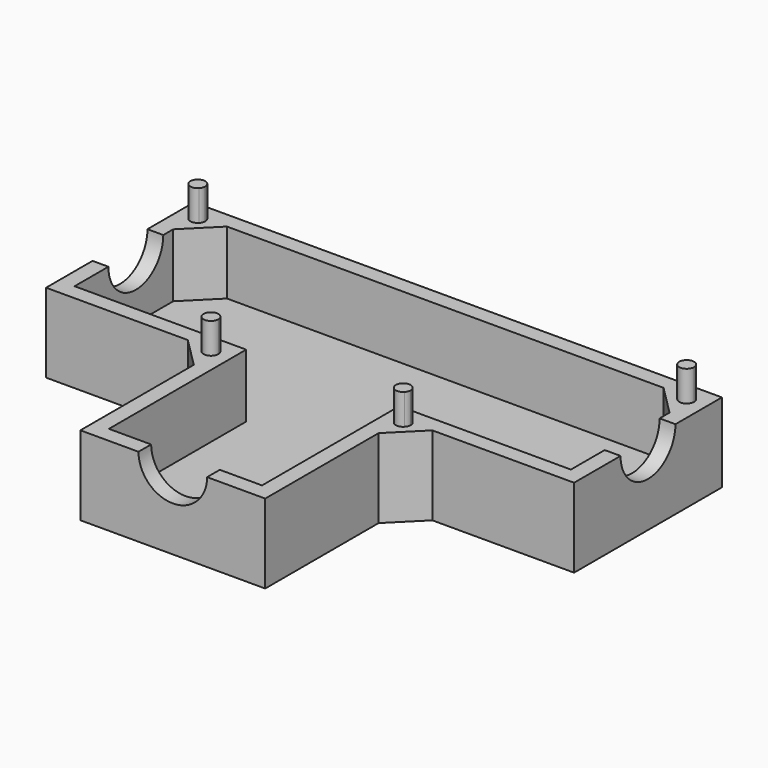
from build123d import *

# Parameters (mm, degrees)
F1_DEPTH  = 7.5
F2_T      = -1.5
F4_DEPTH  = 7.5
F6_DEPTH  = 2.9
F7_R      = 3.25
F8_DEPTH  = 32.25
F9_R      = 3.25
F10_DEPTH = 50.001


with BuildPart() as f1:
    # F0 (on Top) → F1 (new body)
    with BuildSketch(Plane.XY):
        Polygon((25, -8.75), (25, 8.75), (8.75, 8.75), (-8.75, 8.75), (-25, 8.75), (-25, -8.75), (-8.75, -8.75), (-8.75, -25), (0, -25), (8.75, -25), (8.75, -8.75), align=None)
    extrude(amount=F1_DEPTH)

    # F2
    f2_openings = [f1.faces().sort_by_distance(p)[0] for p in [
        (0, -4.139151, 7.5),
    ]]
    offset(amount=F2_T, openings=f2_openings, kind=Kind.INTERSECTION)

    # F3 (on face) → F4 (join, through all)
    with BuildSketch(Plane.XY.offset(7.5)):
        Polygon((-23.5, 7.25), (-23.5, 4.4215728753), (-20.6715728753, 7.25), align=None)
        Polygon((-8.75, -8.75), (-11.5784271247, -8.75), (-8.75, -11.5784271247), align=None)
        Polygon((23.5, 7.25), (20.6715728753, 7.25), (23.5, 4.4215728753), align=None)
        Polygon((8.75, -11.5784271247), (11.5784271247, -8.75), (8.75, -8.75), align=None)
    extrude(amount=-F4_DEPTH)

    # F5 (on face) → F6 (join)
    with BuildSketch(Plane.XY.offset(7.5)):
        with BuildLine():
            ThreePointArc((-9.5985281374, -9.5985281374), (-8.8356749879, -9.7502690634), (-8.4035533906, -9.1035533906))
            ThreePointArc((-8.4035533906, -9.1035533906), (-9.3714317932, -8.4568377178), (-9.5985281374, -9.5985281374))
        make_face()
        with BuildLine():
            ThreePointArc((-22.6514718626, 6.4014718626), (-22.4997309366, 6.6285682068), (-22.4464466094, 6.8964466094))
            ThreePointArc((-22.4464466094, 6.8964466094), (-23.7931622822, 7.1643250121), (-22.6514718626, 6.4014718626))
        make_face()
        with BuildLine():
            ThreePointArc((9.5985281374, -9.5985281374), (9.7502690634, -9.3714317932), (9.8035533906, -9.1035533906))
            ThreePointArc((9.8035533906, -9.1035533906), (8.4568377178, -8.8356749879), (9.5985281374, -9.5985281374))
        make_face()
        with BuildLine():
            ThreePointArc((22.6514718626, 6.4014718626), (23.4143250121, 6.2497309366), (23.8464466094, 6.8964466094))
            ThreePointArc((23.8464466094, 6.8964466094), (22.8785682068, 7.5431622822), (22.6514718626, 6.4014718626))
        make_face()
    extrude(amount=F6_DEPTH)

    # F7 (on face) → F8 (cut, through all)
    with BuildSketch(Plane.XZ.offset(25)):
        with Locations((0, 7.5)):
            Circle(F7_R)
    extrude(amount=-F8_DEPTH, mode=Mode.SUBTRACT)

    # F9 (on face) → F10 (cut, through all)
    with BuildSketch(Plane(origin=(-25, 0, 0), x_dir=(0, -1, 0), z_dir=(-1, 0, 0))):
        with Locations((0, 7.5)):
            Circle(F9_R)
    extrude(amount=-F10_DEPTH, mode=Mode.SUBTRACT)


solid = f1.part
